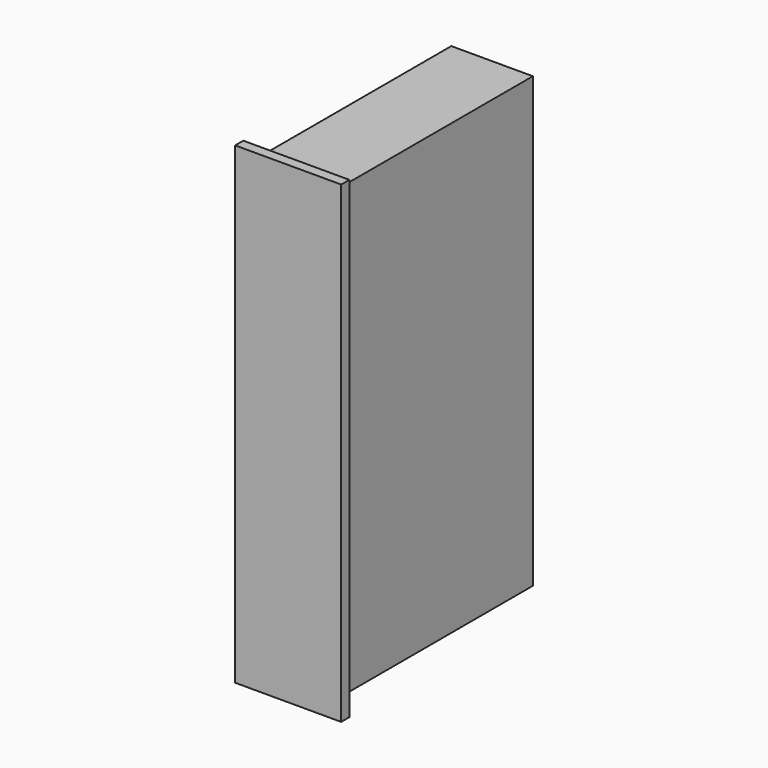
from build123d import *

# Parameters (mm, degrees)
F0_W     = 200
F0_H     = 600
F1_DEPTH = 1100
F2_W     = 140
F2_H     = 1040
F3_DEPTH = 600
F4_W     = 500
F4_H     = 30
F5_DEPTH = 30
F6_W     = 260
F6_H     = 1160
F6_W_2   = 200
F6_H_2   = 1100
F7_DEPTH = 25


with BuildPart() as f1:
    # F0 (on Top) → F1 (new body)
    with BuildSketch(Plane.XY):
        with Locations((-10.210905, -5.170632)):
            Rectangle(F0_W, F0_H)
    extrude(amount=F1_DEPTH)

    # F2 (on face) → F3 (cut, through all)
    with BuildSketch(Plane.XZ.offset(305.170632)):
        with Locations((-10.210905, 550)):
            Rectangle(F2_W, F2_H)
    extrude(amount=-F3_DEPTH, mode=Mode.SUBTRACT)

    # F4 (on face) → F5 (cut)
    with BuildSketch(Plane(origin=(-110.210905, 0, 0), x_dir=(0, -1, 0), z_dir=(-1, 0, 0))):
        with Locations((5.170632, 1035)):
            Rectangle(F4_W, F4_H)
        with Locations((5.170632, 960.4)):
            Rectangle(F4_W, F4_H)
        with Locations((5.170632, 885.8)):
            Rectangle(F4_W, F4_H)
        with Locations((5.170632, 811.2)):
            Rectangle(F4_W, F4_H)
        with Locations((5.170632, 736.6)):
            Rectangle(F4_W, F4_H)
        with Locations((5.170632, 662)):
            Rectangle(F4_W, F4_H)
        with Locations((5.170632, 587.4)):
            Rectangle(F4_W, F4_H)
        with Locations((5.170632, 512.8)):
            Rectangle(F4_W, F4_H)
        with Locations((5.170632, 438.2)):
            Rectangle(F4_W, F4_H)
        with Locations((5.170632, 363.6)):
            Rectangle(F4_W, F4_H)
        with Locations((5.170632, 289)):
            Rectangle(F4_W, F4_H)
        with Locations((5.170632, 214.4)):
            Rectangle(F4_W, F4_H)
        with Locations((5.170632, 139.8)):
            Rectangle(F4_W, F4_H)
        with Locations((5.170632, 65.2)):
            Rectangle(F4_W, F4_H)
    extrude(amount=-F5_DEPTH, mode=Mode.SUBTRACT)

    # F6 (on face) → F7 (join)
    with BuildSketch(Plane.XZ.offset(305.170632)):
        with Locations((-10.210905, 550)):
            Rectangle(F6_W, F6_H)
        with Locations((-10.210905, 550)):
            Rectangle(F6_W_2, F6_H_2, mode=Mode.SUBTRACT)
        with Locations((-10.210905, 550)):
            Rectangle(F6_W_2, F6_H_2)
        with Locations((-10.210905, 550)):
            Rectangle(F6_W_2, F6_H_2)
    extrude(amount=F7_DEPTH)


solid = f1.part
